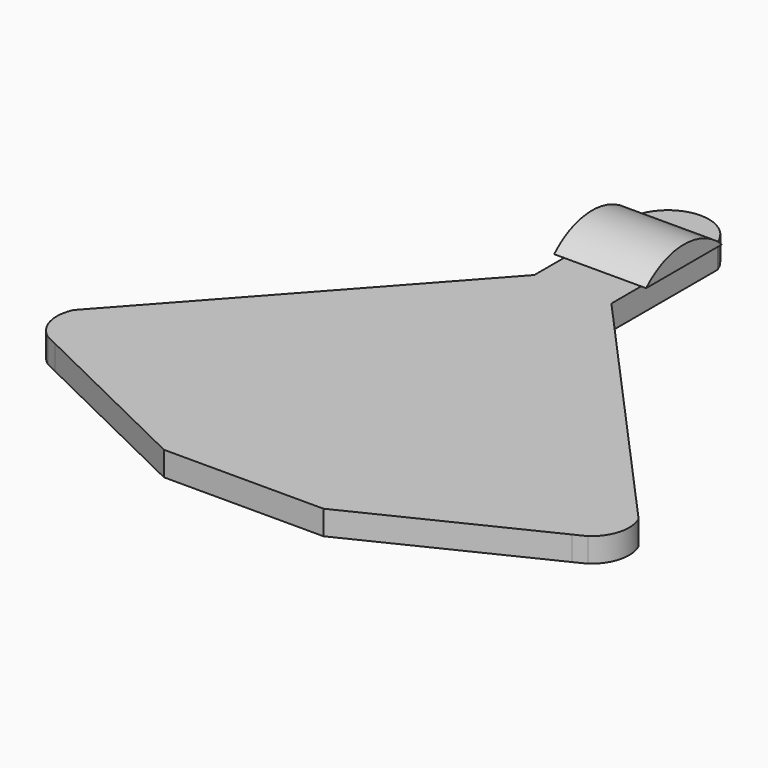
from build123d import *

# Parameters (mm, degrees)
F1_DEPTH = 6.7056
F3_DEPTH = 12.7


with BuildPart() as f1:
    # F0 (on Top) → F1 (new body)
    with BuildSketch(Plane.XY):
        with BuildLine():
            ThreePointArc((10.642839, 51.184798), (0, 58.675642), (-10.642839, 51.184798))
            Line((-10.642839, 51.184798), (-10.642839, 14.551106))
            Line((-10.642839, 14.551106), (-73.88746, -55.689162))
            Line((-73.88746, -55.689162), (-78.030853, -60.290866))
            ThreePointArc((-78.030853, -60.290866), (-78.679434, -67.516349), (-74.543492, -73.476404))
            Line((-74.543492, -73.476404), (-71.450063, -74.984222))
            Line((-71.450063, -74.984222), (-22.029604, -99.073044))
            Line((-22.029604, -99.073044), (0, -99.073044))
            Line((0, -99.073044), (22.029604, -99.073044))
            Line((22.029604, -99.073044), (71.450063, -74.984222))
            Line((71.450063, -74.984222), (74.543492, -73.476404))
            ThreePointArc((74.543492, -73.476404), (78.679434, -67.516349), (78.030853, -60.290866))
            Line((78.030853, -60.290866), (73.88746, -55.689162))
            Line((73.88746, -55.689162), (10.642839, 14.551106))
            Line((10.642839, 14.551106), (10.642839, 51.184798))
        make_face()
    extrude(amount=F1_DEPTH)


with BuildPart() as f3:
    # F2 (on Right) → F3 (new body, symmetric)
    with BuildSketch(Plane.YZ):
        with BuildLine():
            Line((23.976037, 7.264988), (50.138671, 7.264988))
            ThreePointArc((50.138671, 7.264988), (37.057354, 12.609853), (23.976037, 7.264988))
        make_face()
    extrude(amount=F3_DEPTH, both=True)


solid = Compound([f1.part, f3.part])
